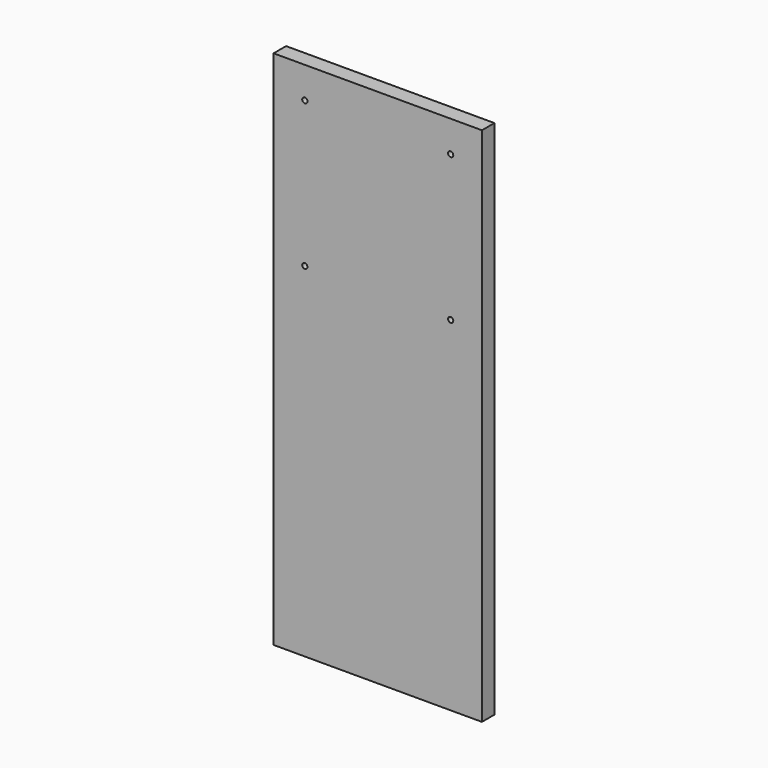
from build123d import *

# Parameters (mm, degrees)
F0_W     = 200
F0_H     = 500
F0_R     = 2.5
F1_DEPTH = 7.5


with BuildPart() as f1:
    # F0 (on Front) → F1 (new body, symmetric)
    with BuildSketch(Plane.XZ):
        with Locations((100, -250)):
            Rectangle(F0_W, F0_H)
        with Locations((30, -170)):
            Circle(F0_R, mode=Mode.SUBTRACT)
        with Locations((30, -30)):
            Circle(F0_R, mode=Mode.SUBTRACT)
        with Locations((170, -170)):
            Circle(F0_R, mode=Mode.SUBTRACT)
        with Locations((170, -30)):
            Circle(F0_R, mode=Mode.SUBTRACT)
    extrude(amount=F1_DEPTH, both=True)


solid = f1.part
